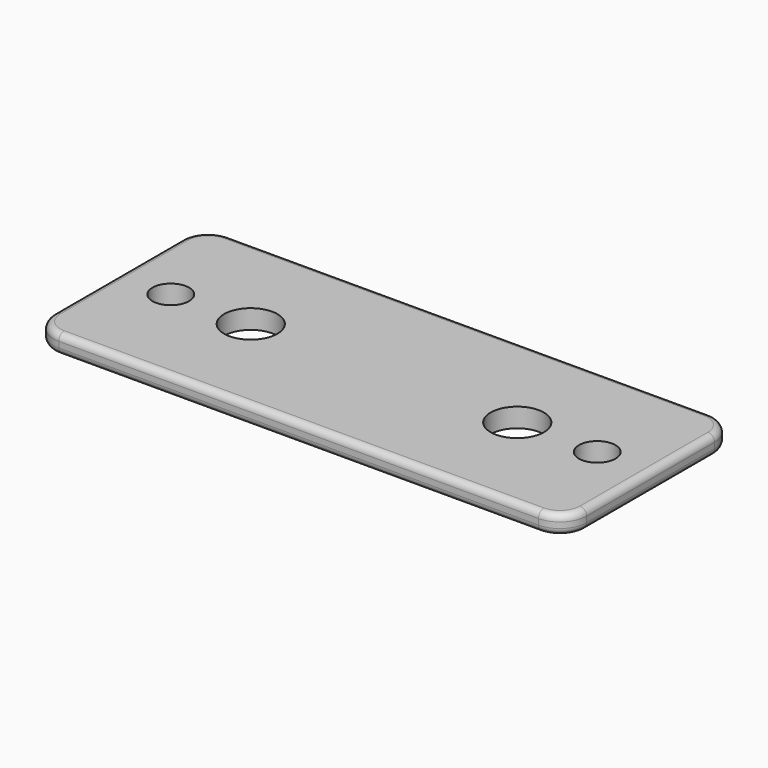
from build123d import *

# Parameters (mm, degrees)
F0_R     = 4.365625
F0_R_2   = 6.35
F1_DEPTH = 2.27711
F2_R     = 1.5875


with BuildPart() as f1:
    # F0 (on Top) → F1 (new body, symmetric)
    with BuildSketch(Plane.XY):
        with BuildLine():
            Line((57.15, 25.4), (-57.15, 25.4))
            ThreePointArc((-57.15, 25.4), (-61.640128, 23.540128), (-63.5, 19.05))
            Line((-63.5, 19.05), (-63.5, -19.05))
            ThreePointArc((-63.5, -19.05), (-61.640128, -23.540128), (-57.15, -25.4))
            Line((-57.15, -25.4), (57.15, -25.4))
            ThreePointArc((57.15, -25.4), (61.640128, -23.540128), (63.5, -19.05))
            Line((63.5, -19.05), (63.5, 19.05))
            ThreePointArc((63.5, 19.05), (61.640128, 23.540128), (57.15, 25.4))
        make_face()
        with Locations((-50.8, 0)):
            Circle(F0_R, mode=Mode.SUBTRACT)
        with Locations((-31.75, 0)):
            Circle(F0_R_2, mode=Mode.SUBTRACT)
        with Locations((31.75, 0)):
            Circle(F0_R_2, mode=Mode.SUBTRACT)
        with Locations((50.8, 0)):
            Circle(F0_R, mode=Mode.SUBTRACT)
    extrude(amount=F1_DEPTH, both=True)

    # F2
    f2_edges = [f1.edges().sort_by_distance(p)[0] for p in [
        (0, -25.4, 2.27711),
        (0, -25.4, -2.27711),
    ]]
    fillet(f2_edges, radius=F2_R)


solid = f1.part
